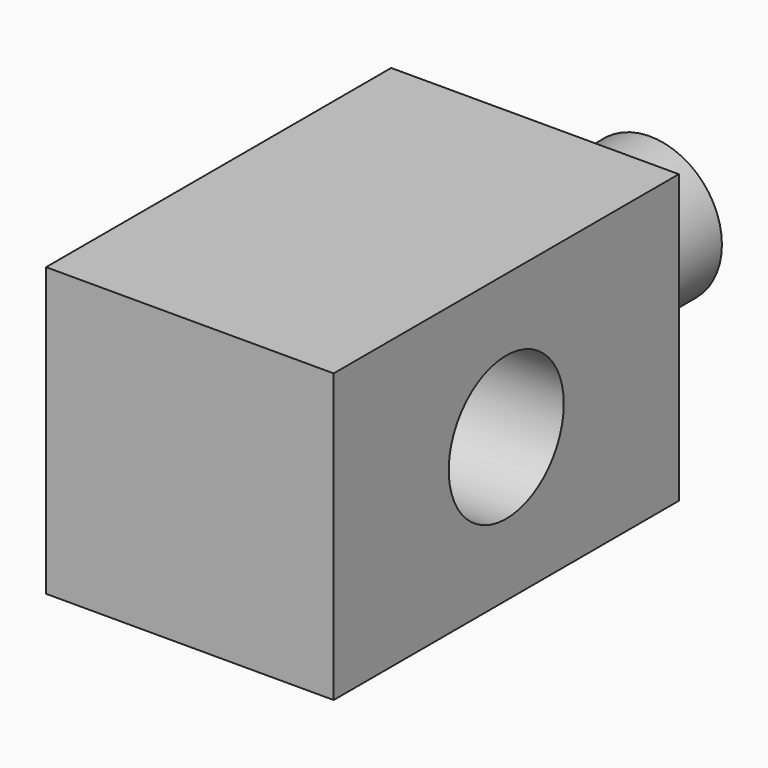
from build123d import *

# Parameters (mm, degrees)
F0_R     = 12.5
F1_DEPTH = 25
F2_W     = 50
F2_H     = 50
F2_R     = 12.5
F3_DEPTH = 75
F4_R     = 12.5
F5_DEPTH = 50.001


with BuildPart() as f1:
    # F0 (on Front) → F1 (new body)
    with BuildSketch(Plane.XZ):
        Circle(F0_R)
    extrude(amount=F1_DEPTH)

    # F2 (on face) → F3 (join)
    with BuildSketch(Plane.XZ.offset(25)):
        Rectangle(F2_W, F2_H)
        Circle(F2_R, mode=Mode.SUBTRACT)
        Circle(F2_R)
    extrude(amount=F3_DEPTH)

    # F4 (on face) → F5 (cut, through all)
    with BuildSketch(Plane.YZ.offset(25)):
        with Locations((-62.5, 0)):
            Circle(F4_R)
    extrude(amount=-F5_DEPTH, mode=Mode.SUBTRACT)


solid = f1.part
